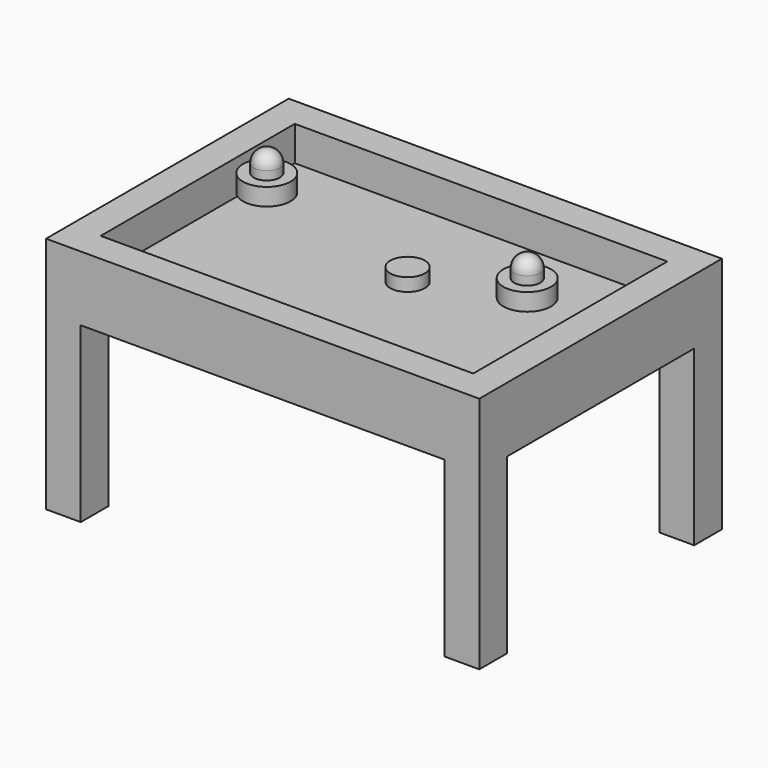
from build123d import *

# Parameters (mm, degrees)
F0_W      = 127
F0_H      = 88.9
F1_DEPTH  = 19.05
F3_T      = -8.89
F4_W      = 10.16
F4_H      = 10.16
F4_H_2    = 10.159999
F5_DEPTH  = 50.8
F6_R      = 5.08
F7_DEPTH  = 3.81
F8_R      = 6.985
F9_DEPTH  = 5.08
F10_R     = 3.81
F11_DEPTH = 6.35
F12_R     = 3.81
F13_R     = 6.985
F14_DEPTH = 5.08
F15_R     = 3.81
F16_DEPTH = 6.35
F17_R     = 3.81


with BuildPart() as f1:
    # F0 (on Top) → F1 (new body)
    with BuildSketch(Plane.XY):
        Rectangle(F0_W, F0_H)
    extrude(amount=F1_DEPTH)

    # F3
    f3_openings = [f1.faces().sort_by_distance(p)[0] for p in [
        (0, 0, 19.05),
    ]]
    offset(amount=F3_T, openings=f3_openings)

    # F4 (on face) → F5 (join)
    with BuildSketch(Plane(origin=(0, 0, 0), x_dir=(1, 0, 0), z_dir=(0, 0, -1))):
        with Locations((-58.42, -39.37)):
            Rectangle(F4_W, F4_H)
        with Locations((58.42, -39.37)):
            Rectangle(F4_W, F4_H_2)
        with Locations((-58.42, 39.37)):
            Rectangle(F4_W, F4_H)
        with Locations((58.42, 39.37)):
            Rectangle(F4_W, F4_H)
    extrude(amount=F5_DEPTH)


with BuildPart() as f7:
    # F6 (on face) → F7 (new body)
    with BuildSketch(Plane.XY.offset(19.05)):
        with Locations((9.889903, -3.717116)):
            Circle(F6_R)
    extrude(amount=-F7_DEPTH)


with BuildPart() as f9:
    # F8 (on face) → F9 (new body)
    with BuildSketch(Plane.XY.offset(19.05)):
        with Locations((40.78066, 1.504392)):
            Circle(F8_R)
    extrude(amount=F9_DEPTH)

    # F10 (on face) → F11 (join)
    with BuildSketch(Plane.XY.offset(24.13)):
        with Locations((40.78066, 1.504392)):
            Circle(F10_R)
    extrude(amount=F11_DEPTH)

    # F12
    f12_edges = [f9.edges().sort_by_distance(p)[0] for p in [
        (36.97066, 1.504392, 30.48),
    ]]
    fillet(f12_edges, radius=F12_R)


with BuildPart() as f14:
    # F13 (on face) → F14 (new body)
    with BuildSketch(Plane.XY.offset(19.05)):
        with Locations((-38.345806, 4.977581)):
            Circle(F13_R)
    extrude(amount=F14_DEPTH)

    # F15 (on face) → F16 (join)
    with BuildSketch(Plane.XY.offset(24.13)):
        with Locations((-38.345806, 4.977581)):
            Circle(F15_R)
    extrude(amount=F16_DEPTH)

    # F17
    f17_edges = [f14.edges().sort_by_distance(p)[0] for p in [
        (-42.155806, 4.977581, 30.48),
    ]]
    fillet(f17_edges, radius=F17_R)


solid = Compound([f1.part, f7.part, f9.part, f14.part])
